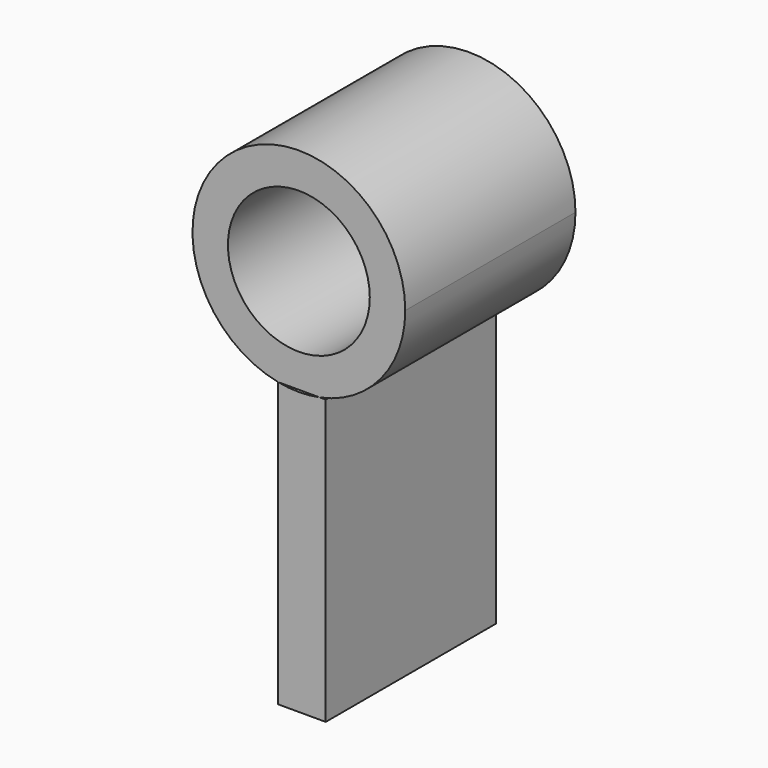
from build123d import *

# Parameters (mm, degrees)
F0_R     = 1
F1_DEPTH = 3


with BuildPart() as f1:
    # F0 (on Front) → F1 (new body)
    with BuildSketch(Plane.XZ):
        with BuildLine():
            ThreePointArc((-42.710448, 29.626263), (-43.003839, 29.59729), (-43.297229, 29.626263))
            Line((-43.297229, 29.626263), (-43.297229, 25.626263))
            Line((-43.297229, 25.626263), (-42.624924, 25.626263))
            Line((-42.624924, 25.626263), (-42.624924, 29.626263))
            Line((-42.624924, 29.626263), (-42.710448, 29.626263))
        make_face()
        with BuildLine():
            ThreePointArc((-42.710448, 29.626263), (-41.844079, 30.145998), (-41.503839, 31.09729))
            ThreePointArc((-41.503839, 31.09729), (-43.955131, 32.25705), (-43.297229, 29.626263))
            Line((-43.297229, 29.626263), (-42.710448, 29.626263))
        make_face()
        with Locations((-43.003839, 31.09729)):
            Circle(F0_R, mode=Mode.SUBTRACT)
    extrude(amount=F1_DEPTH)


solid = f1.part
